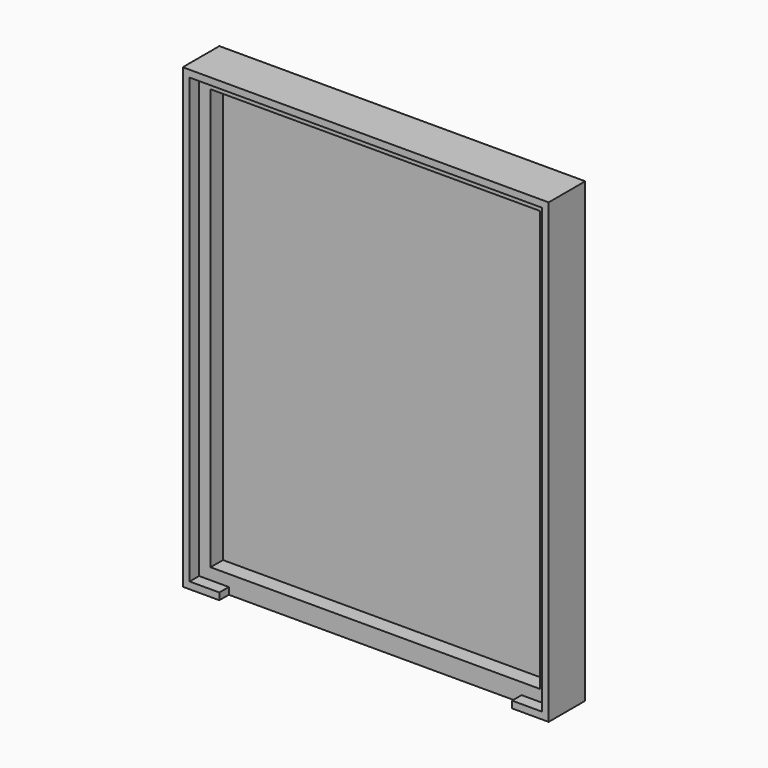
from build123d import *

# Parameters (mm, degrees)
F0_W     = 40
F0_H     = 50
F1_DEPTH = 2
F2_W     = 40
F2_H     = 50
F2_W_2   = 36
F2_H_2   = 46
F3_DEPTH = 3
F4_W     = 38.5
F4_H     = 48.5
F4_W_2   = 36
F4_H_2   = 46
F5_DEPTH = 1.3
F6_W     = 32
F6_H     = 0.75
F7_DEPTH = 1.3


with BuildPart() as f1:
    # F0 (on Front) → F1 (new body)
    with BuildSketch(Plane.XZ):
        Rectangle(F0_W, F0_H)
    extrude(amount=F1_DEPTH)

    # F2 (on face) → F3 (join)
    with BuildSketch(Plane.XZ.offset(2)):
        Rectangle(F2_W, F2_H)
        Rectangle(F2_W_2, F2_H_2, mode=Mode.SUBTRACT)
    extrude(amount=F3_DEPTH)

    # F4 (on face) → F5 (cut)
    with BuildSketch(Plane.XZ.offset(5)):
        Rectangle(F4_W, F4_H)
        Rectangle(F4_W_2, F4_H_2, mode=Mode.SUBTRACT)
    extrude(amount=-F5_DEPTH, mode=Mode.SUBTRACT)

    # F6 (on face) → F7 (cut)
    with BuildSketch(Plane.XZ.offset(5)):
        with Locations((0, -24.625)):
            Rectangle(F6_W, F6_H)
    extrude(amount=-F7_DEPTH, mode=Mode.SUBTRACT)


solid = f1.part
